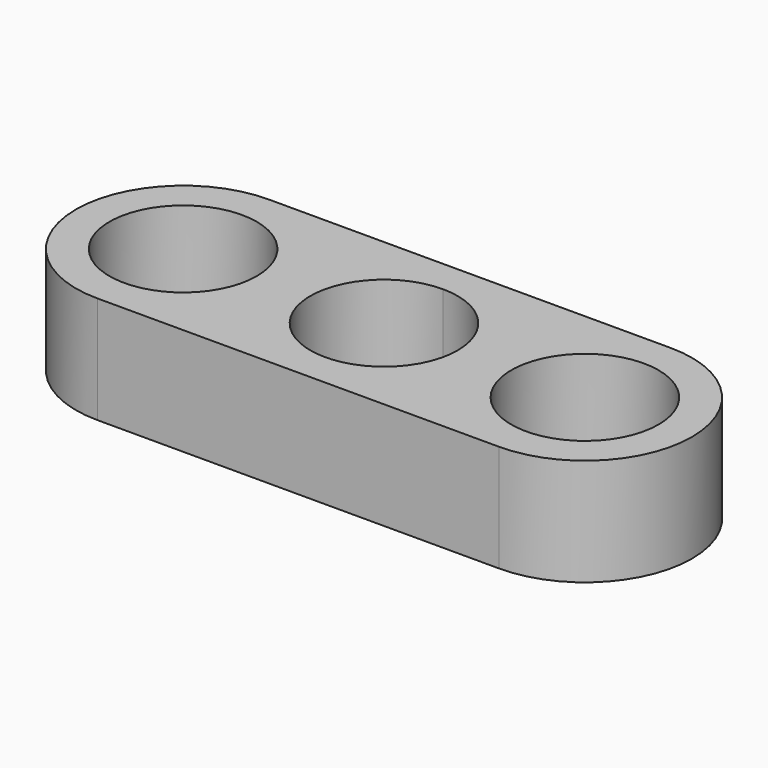
from build123d import *

# Parameters (mm, degrees)
F0_R     = 2.75
F1_DEPTH = 2


with BuildPart() as f1:
    # F0 (on Top) → F1 (new body, symmetric)
    with BuildSketch(Plane.XY):
        with BuildLine():
            Line((15, 4), (7.5, 4))
            Line((7.5, 4), (0, 4))
            ThreePointArc((0, 4), (-4, 0), (0, -4))
            Line((0, -4), (15, -4))
            ThreePointArc((15, -4), (19, 0), (15, 4))
        make_face()
        Circle(F0_R, mode=Mode.SUBTRACT)
        with BuildLine():
            ThreePointArc((7.5, 2.75), (9.444544, 1.944544), (10.25, 0))
            ThreePointArc((10.25, 0), (5.555456, -1.944544), (7.5, 2.75))
        make_face(mode=Mode.SUBTRACT)
        with Locations((15, 0)):
            Circle(F0_R, mode=Mode.SUBTRACT)
    extrude(amount=F1_DEPTH, both=True)


solid = f1.part
